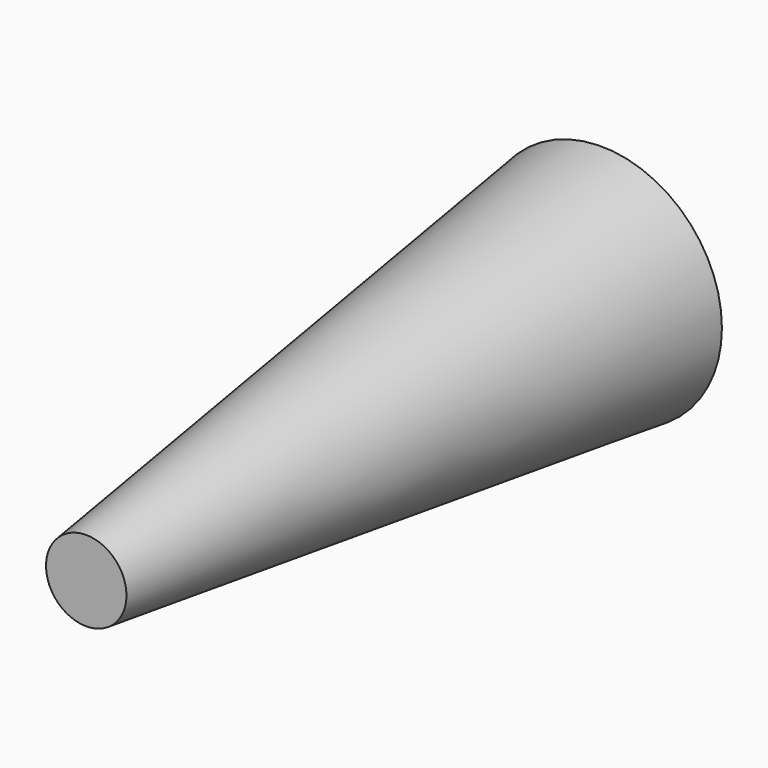
from build123d import *

# Parameters (mm, degrees)
F2_R = 3.175
F0_R = 9.525


with BuildPart() as f3:
    # F2 (on offset) → F3 section 0
    with BuildSketch(Plane.XZ.offset(50.8)):
        Circle(F2_R)
    # F0 (on Front) → F3 section 1
    with BuildSketch(Plane.XZ):
        Circle(F0_R)
    loft()


solid = f3.part
